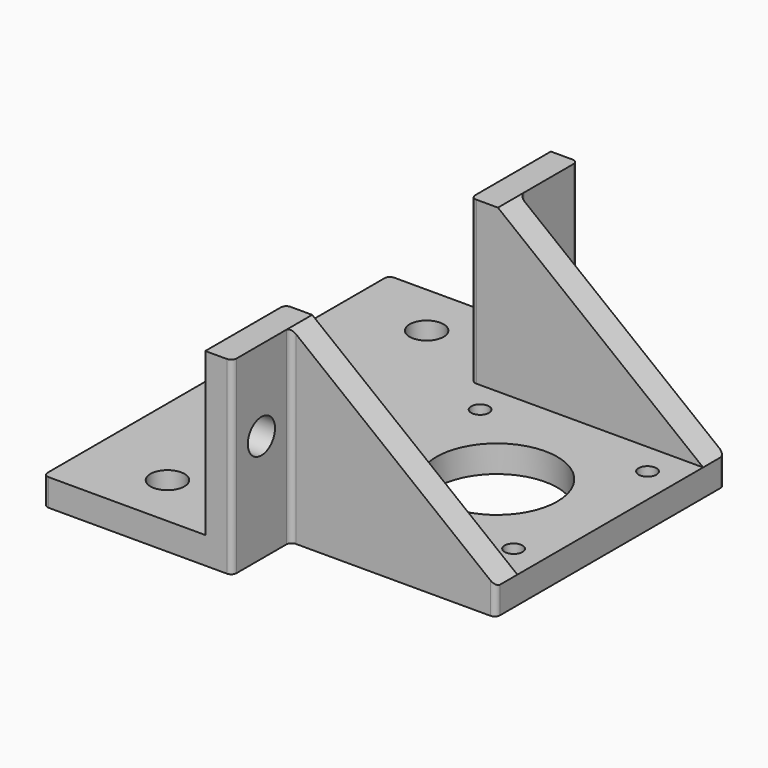
from build123d import *

# Parameters (mm, degrees)
SKETCH_R             = 11.2
SKETCH_R_2           = 3.15
SKETCH_R_3           = 1.65
PAD_DEPTH            = 5
PAD001_DEPTH         = 30
SKETCH002_R          = 3.15
POCKET_DEPTH         = 43.001
POCKET001_DEPTH      = 40.001
POCKET001_DEPTH_BACK = -40.001
FILLET_R             = 1
SKETCH004_R          = 0.5
POCKET002_DEPTH      = 5.001
POCKET002_DEPTH_BACK = -30.001


with BuildPart() as part:
    # Sketch → Pad (new body)
    with BuildSketch(Plane.XY):
        Polygon((-30, 40), (-30, -40), (5, -40), (5, -26.5), (43, -26.5), (43, 26.5), (5, 26.5), (5, 40), align=None)
        with Locations((22, 0)):
            Circle(SKETCH_R, mode=Mode.SUBTRACT)
        with Locations((-15, 30)):
            Circle(SKETCH_R_2, mode=Mode.SUBTRACT)
        with Locations((-15, -30)):
            Circle(SKETCH_R_2, mode=Mode.SUBTRACT)
        with Locations((6.5, -15.5)):
            Circle(SKETCH_R_3, mode=Mode.SUBTRACT)
        with Locations((37.5, -15.5)):
            Circle(SKETCH_R_3, mode=Mode.SUBTRACT)
        with Locations((37.5, 15.5)):
            Circle(SKETCH_R_3, mode=Mode.SUBTRACT)
        with Locations((6.5, 15.5)):
            Circle(SKETCH_R_3, mode=Mode.SUBTRACT)
    extrude(amount=-PAD_DEPTH)

    # Sketch001 → Pad001 (join)
    with BuildSketch(Plane.XY):
        Polygon((0, -40), (5, -40), (5, -26.5), (43, -26.5), (43, -21.5), (0, -21.5), align=None)
        Polygon((0, 21.5), (43, 21.5), (43, 26.5), (5, 26.5), (5, 40), (0, 40), align=None)
    extrude(amount=PAD001_DEPTH)

    # Sketch002 → Pocket (cut, through all)
    with BuildSketch(Plane.YZ):
        with Locations((-33.25, 15)):
            Circle(SKETCH002_R)
        with Locations((33.25, 15)):
            Circle(SKETCH002_R)
    extrude(amount=POCKET_DEPTH, mode=Mode.SUBTRACT)

    # Sketch003 → Pocket001 (cut, two sides)
    with BuildSketch(Plane.XZ) as pocket001_sk:
        Polygon((5, 30), (43, 30), (43, 0), align=None)
    extrude(amount=-POCKET001_DEPTH, mode=Mode.SUBTRACT)
    extrude(pocket001_sk.sketch, amount=-POCKET001_DEPTH_BACK, mode=Mode.SUBTRACT)

    # Fillet
    fillet_edges = [part.edges().sort_by_distance(p)[0] for p in [
        (5, -26.5, 12.5),
        (5, 26.5, 12.5),
        (43, 26.5, -2.5),
        (43, -26.5, -2.5),
        (0, -21.5, 15),
        (0, 21.5, 15),
        (5, -40, 12.5),
        (5, 40, 12.5),
        (-30, 40, -2.5),
        (-30, -40, -2.5),
    ]]
    fillet(fillet_edges, radius=FILLET_R)

    # Sketch004 (on Face2 of Fillet) → Pocket002 (cut, two sides)
    with BuildSketch(Plane.XY) as pocket002_sk:
        with Locations((-30, 0)):
            Circle(SKETCH004_R)
    extrude(amount=-POCKET002_DEPTH, mode=Mode.SUBTRACT)
    extrude(pocket002_sk.sketch, amount=-POCKET002_DEPTH_BACK, mode=Mode.SUBTRACT)


solid = part.part
